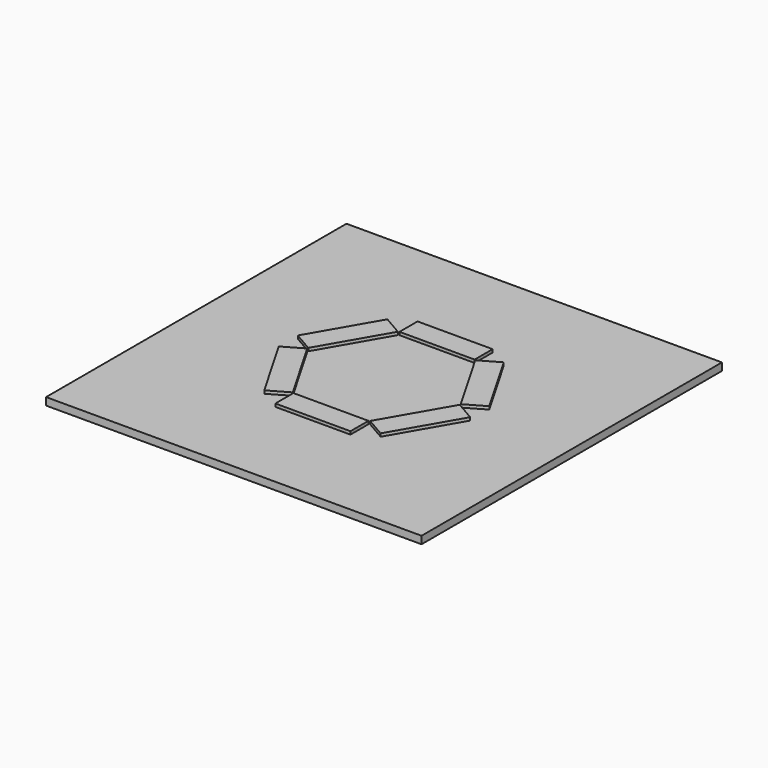
from build123d import *

# Parameters (mm, degrees)
F0_W     = 500
F0_H     = 500
F1_DEPTH = 10
F2_W     = 100
F2_H     = 30
F3_DEPTH = 4


with BuildPart() as f1:
    # F0 (on Top) → F1 (new body)
    with BuildSketch(Plane.XY):
        Rectangle(F0_W, F0_H)
    extrude(amount=F1_DEPTH)

    # F2 (on face) → F3 (join)
    with BuildSketch(Plane.XY.offset(10)):
        with Locations((0, 103.334591)):
            Rectangle(F2_W, F2_H)
        Polygon((-77.480762, 102.468566), (-127.480762, 15.866025), (-101.5, 0.866025), (-51.5, 87.468566), align=None)
        Polygon((-127.480762, -15.866025), (-77.480762, -102.468566), (-51.5, -87.468566), (-101.5, -0.866025), align=None)
        with Locations((0, -103.334591)):
            Rectangle(F2_W, F2_H)
        Polygon((77.480762, -102.468566), (127.480762, -15.866025), (101.5, -0.866025), (51.5, -87.468566), align=None)
        Polygon((127.480762, 15.866025), (77.480762, 102.468566), (51.5, 87.468566), (101.5, 0.866025), align=None)
    extrude(amount=F3_DEPTH)


solid = f1.part
